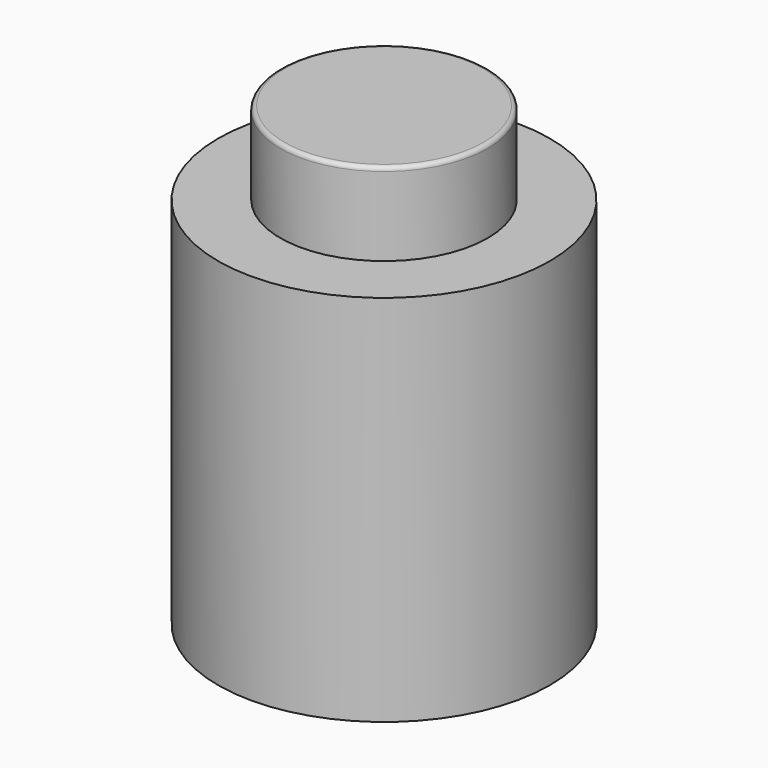
from build123d import *

# Parameters (mm, degrees)
F0_W = 2.5
F0_H = 2
F3_R = 0.1


with BuildPart() as f2:
    # F0 (on Front) → F2 (revolve)
    with BuildSketch(Plane.XZ):
        Polygon((2.5, 4.239544), (0, 4.239544), (0, 3.239544), (3, 3.239544), (3, -4.760456), (4, -4.760456), (4, 4.239544), align=None)
        with Locations((1.25, 5.239544)):
            Rectangle(F0_W, F0_H)
    revolve(axis=Axis((0, 0, 3.739544), (0, 0, -1)))

    # F3
    f3_edges = [f2.edges().sort_by_distance(p)[0] for p in [
        (-2.5, 0, 6.239544),
    ]]
    fillet(f3_edges, radius=F3_R)


solid = f2.part
